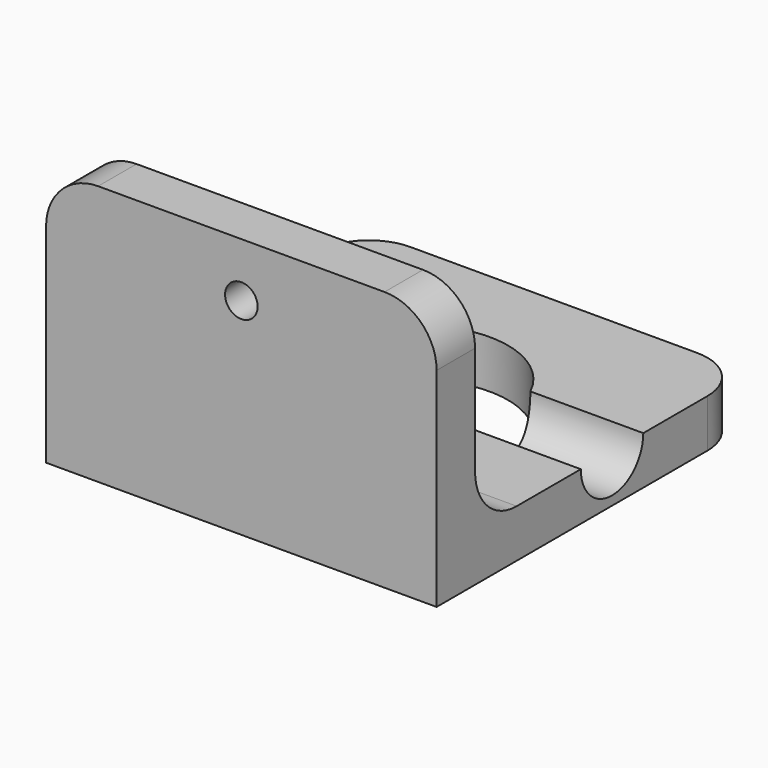
from build123d import *

# Parameters (mm, degrees)
F1_DEPTH       = 19.05
F3_D           = 3.175
F3_CSINK_D     = 6.35
F3_CSINK_ANGLE = 90
F5_D           = 17.78
F7_DEPTH       = 38.101
F8_R           = 5.08
F9_R           = 5.08


with BuildPart() as f1:
    # F0 (on Right) → F1 (new body, symmetric)
    with BuildSketch(Plane.YZ):
        Polygon((4.68586, 25.4), (0, 25.4), (0, 0), (38.1, 0), (38.1, 4.68586), (4.68586, 4.68586), align=None)
    extrude(amount=F1_DEPTH, both=True)

    # F3 (through all)
    with Locations(Plane(origin=(0, 4.68586, 0), x_dir=(-1, 0, 0), z_dir=(0, 1, 0))):
        with Locations((0, 20.114239)):
            CounterSinkHole(F3_D / 2, F3_CSINK_D / 2, counter_sink_angle=F3_CSINK_ANGLE)

    # F5 (through all)
    with Locations(Plane.XY.offset(4.68586)):
        with Locations((0, 21.39293)):
            Hole(F5_D / 2)

    # F6 (on face) → F7 (cut, through all)
    with BuildSketch(Plane.YZ.offset(19.05)):
        with BuildLine():
            Line((25.20293, 4.68586), (17.58293, 4.68586))
            ThreePointArc((17.58293, 4.68586), (21.39293, 0.87586), (25.20293, 4.68586))
        make_face()
    extrude(amount=-F7_DEPTH, mode=Mode.SUBTRACT)

    # F8
    f8_edges = [f1.edges().sort_by_distance(p)[0] for p in [
        (0, 4.68586, 4.68586),
    ]]
    fillet(f8_edges, radius=F8_R)

    # F9
    f9_edges = [f1.edges().sort_by_distance(p)[0] for p in [
        (19.05, 38.1, 2.34293),
        (-19.05, 38.1, 2.34293),
        (19.05, 2.34293, 25.4),
        (-19.05, 2.34293, 25.4),
    ]]
    fillet(f9_edges, radius=F9_R)


solid = f1.part
